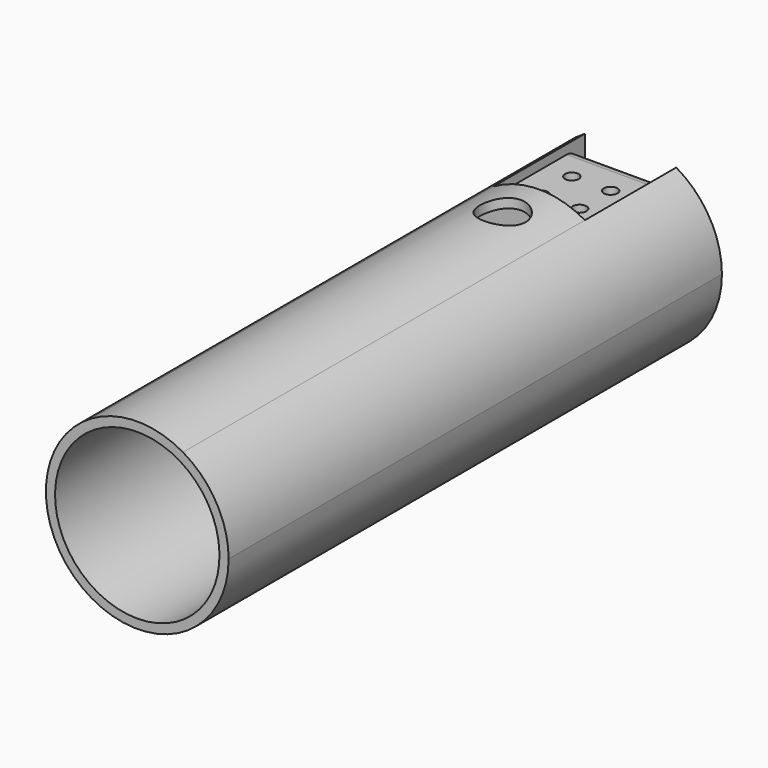
from build123d import *

# Parameters (mm, degrees)
F1_DEPTH = 135
F2_START = 25
F2_DEPTH = 110
F0_R     = 13.5
F3_DEPTH = 25
F4_W     = 20
F4_H     = 36.2463506984
F5_DEPTH = 2
F7_D     = 3
F7_DEPTH = 5
F7_TIP   = 0.9012909285
F9_D     = 10
F9_DEPTH = 20.001
F10_R    = 3


with BuildPart() as f1:
    # F0 (on Front) → F1 (new body)
    with BuildSketch(Plane.XZ):
        with BuildLine():
            ThreePointArc((-10, 17.3205080757), (-10, -17.3205080757), (20, 0))
            ThreePointArc((20, 0), (17.3205080757, 10), (10, 17.3205080757))
            Line((10, 17.3205080757), (10, 15.3205080757))
            Line((10, 15.3205080757), (9.448916991, 15.3205080757))
            ThreePointArc((9.448916991, 15.3205080757), (15.7175142093, 8.7726704646), (18, 0))
            ThreePointArc((18, 0), (-8.7726704646, -15.7175142093), (-9.448916991, 15.3205080757))
            Line((-9.448916991, 15.3205080757), (-10, 15.3205080757))
            Line((-10, 15.3205080757), (-10, 17.3205080757))
        make_face()
    extrude(amount=F1_DEPTH)

    # F0 (on Front) → F2 (join)
    with BuildSketch(Plane.XZ.offset(F2_START)):
        with BuildLine():
            Line((10, 15.3205080757), (10, 17.3205080757))
            ThreePointArc((10, 17.3205080757), (0, 20), (-10, 17.3205080757))
            Line((-10, 17.3205080757), (-10, 15.3205080757))
            Line((-10, 15.3205080757), (-9.448916991, 15.3205080757))
            ThreePointArc((-9.448916991, 15.3205080757), (0, 18), (9.448916991, 15.3205080757))
            Line((9.448916991, 15.3205080757), (10, 15.3205080757))
        make_face()
    extrude(amount=F2_DEPTH)

    # F0 (on Front) → F3 (join)
    with BuildSketch(Plane.XZ):
        with BuildLine():
            ThreePointArc((18, 0), (15.7175142093, 8.7726704646), (9.448916991, 15.3205080757))
            Line((9.448916991, 15.3205080757), (-9.448916991, 15.3205080757))
            ThreePointArc((-9.448916991, 15.3205080757), (-8.7726704646, -15.7175142093), (18, 0))
        make_face()
        Circle(F0_R, mode=Mode.SUBTRACT)
        Circle(F0_R)
    extrude(amount=F3_DEPTH)

    # F4 (on Front) → F5 (cut)
    with BuildSketch(Plane.XZ):
        with Locations((0, 3.1231753492)):
            Rectangle(F4_W, F4_H)
    extrude(amount=F5_DEPTH, mode=Mode.SUBTRACT)

    # F7
    with Locations(Plane.XY.offset(15.3205080757)):
        with Locations((4.2426406871, -10.7573593129), (-4.2426406871, -10.7573593129), (-4.2426406871, -19.2426406871), (4.2426406871, -19.2426406871)):
            Hole(F7_D / 2, depth=F7_DEPTH)
            with Locations((0, 0, -(F7_DEPTH + F7_TIP / 2))):  # 118° drill point
                Cone(0, F7_D / 2, F7_TIP, mode=Mode.SUBTRACT)

    # F9 (through all, one way)
    with BuildSketch(Plane(origin=(0, 0, 0), x_dir=(1, 0, 0), z_dir=(0, 0, -1))):
        with Locations((0, 35)):
            Circle(F9_D / 2)
    extrude(amount=-F9_DEPTH, mode=Mode.SUBTRACT)

    # F10
    f10_edges = [f1.edges().sort_by_distance(p)[0] for p in [
        (0, -2, 15.320508),
    ]]
    fillet(f10_edges, radius=F10_R)


solid = f1.part
